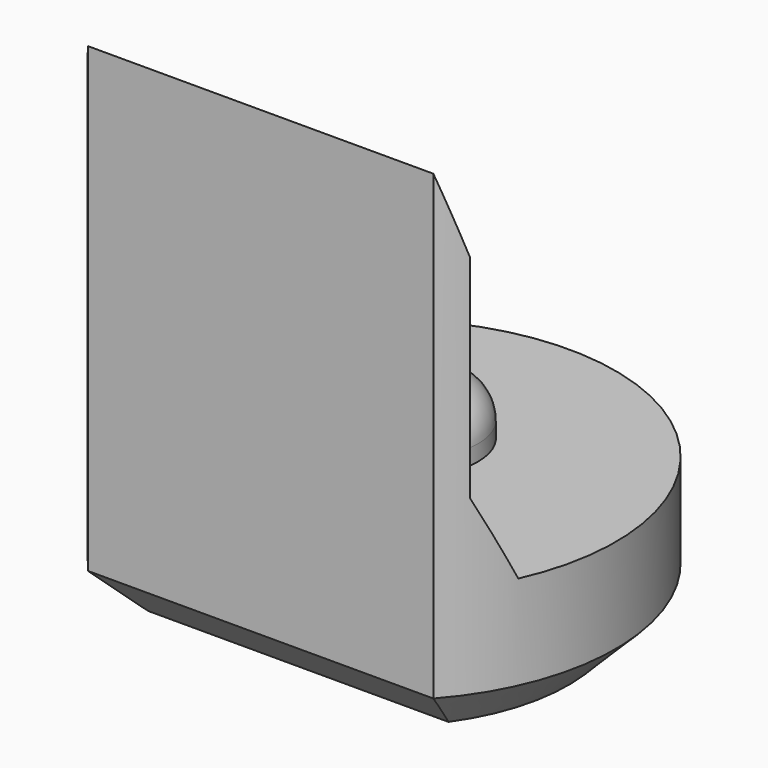
from build123d import *

# Parameters (mm, degrees)
PAD003_DEPTH         = 6.5
POCKET004_DEPTH      = 2.951
POCKET004_DEPTH_BACK = 2.951
SKETCH013_R          = 0.8
PAD006_DEPTH         = 0.7
FILLET_R             = 0.5
CHAMFER004_SIZE      = 0.6


with BuildPart() as part:
    # Sketch004 → Pad003 (new body)
    with BuildSketch(Plane.XY):
        with BuildLine():
            ThreePointArc((2.2, -1.9653244007), (0, 2.95), (-2.2, -1.9653244007))
            Line((-2.2, -1.9653244007), (2.2, -1.9653244007))
        make_face()
    extrude(amount=PAD003_DEPTH)

    # Sketch014 → Pocket004 (cut, two sides)
    with BuildSketch(Plane.YZ) as pocket004_sk:
        Polygon((-1.97, 6.5), (-1.67, 5.5), (-1.67, 2.8), (-1.22, 1.8), (4, 1.8), (4, 6.5), align=None)
    extrude(amount=-POCKET004_DEPTH, mode=Mode.SUBTRACT)
    extrude(pocket004_sk.sketch, amount=POCKET004_DEPTH_BACK, mode=Mode.SUBTRACT)

    # Sketch013 (on Face7 of Pocket004) → Pad006 (join)
    with BuildSketch(Plane.XY.offset(1.8)):
        with Locations((0, 0.5)):
            Circle(SKETCH013_R)
    extrude(amount=PAD006_DEPTH)

    # Fillet
    fillet_edges = [part.edges().sort_by_distance(p)[0] for p in [
        (-0.8, 0.5, 2.5),
    ]]
    fillet(fillet_edges, radius=FILLET_R)

    # Chamfer004
    chamfer004_edges = [part.edges().sort_by_distance(p)[0] for p in [
        (0, 2.95, 0),
        (0, -1.965324, 0),
    ]]
    chamfer(chamfer004_edges, length=CHAMFER004_SIZE)


with BuildPart() as part_1:
    # Body026 placement: moved
    add(part.part.moved(Location((0, 42, 0))))


solid = part_1.part
